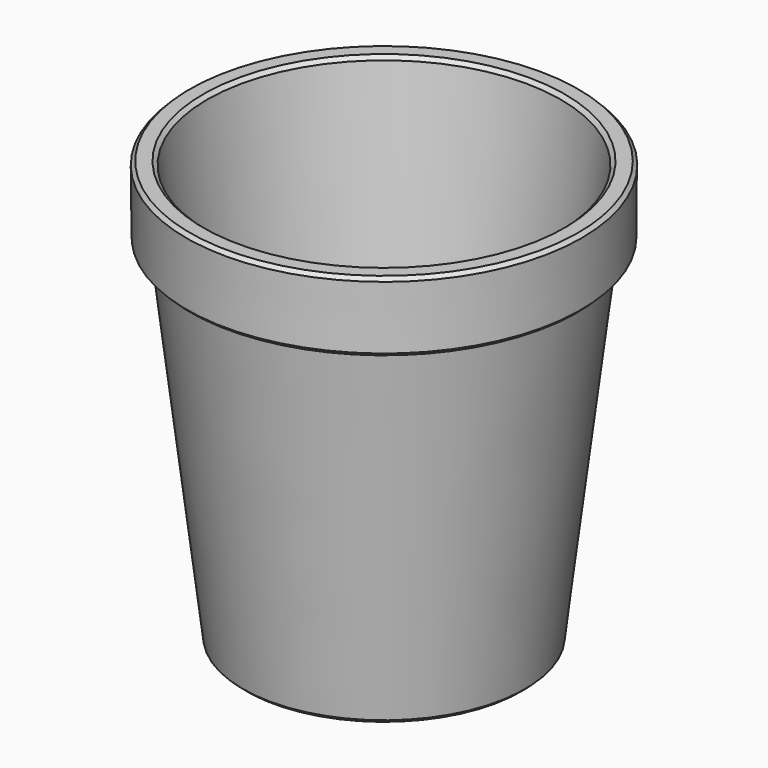
from build123d import *

# Parameters (mm, degrees)
CHAMFER_SIZE = 0.5


with BuildPart() as part:
    # Sketch → Revolution (revolve)
    with BuildSketch(Plane.YZ):
        Polygon((0, 0), (20, 0), (26, 50), (28, 50), (28.1, 60), (25.185651, 60), (18.225651, 2), (0, 2), align=None)
    revolve(axis=Axis((0, 0, 0), (0, 0, 1)))

    # Chamfer
    chamfer_edges = [part.edges().sort_by_distance(p)[0] for p in [
        (0, -20, 0),
        (0, -28, 50),
        (0, -26, 50),
        (0, -28.1, 60),
        (0, -25.185651, 60),
        (0, -18.225651, 2),
    ]]
    chamfer(chamfer_edges, length=CHAMFER_SIZE)


solid = part.part
